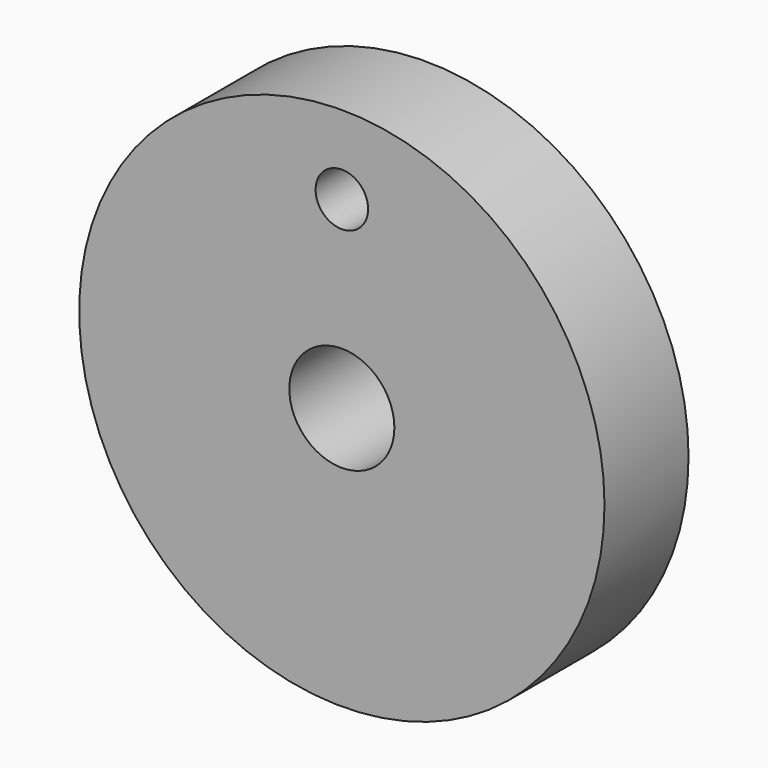
from build123d import *

# Parameters (mm, degrees)
F0_R     = 50
F0_R_2   = 10
F0_R_3   = 5
F1_DEPTH = 20


with BuildPart() as f1:
    # F0 (on Front) → F1 (new body)
    with BuildSketch(Plane.XZ):
        Circle(F0_R)
        Circle(F0_R_2, mode=Mode.SUBTRACT)
        with Locations((0, 35)):
            Circle(F0_R_3, mode=Mode.SUBTRACT)
    extrude(amount=F1_DEPTH)


solid = f1.part
